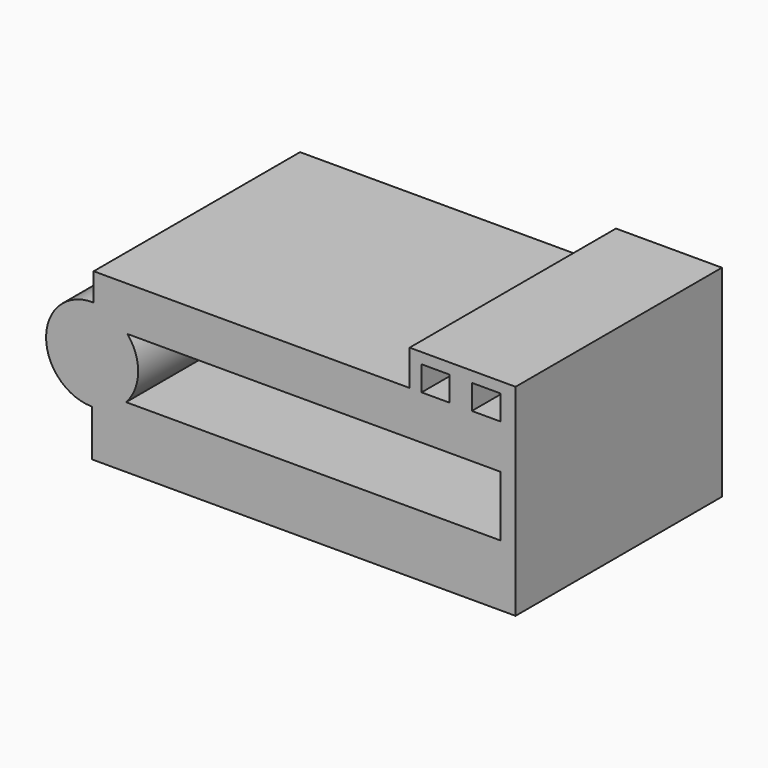
from build123d import *

# Parameters (mm, degrees)
F0_W     = 4.4458694756
F0_H     = 4.8743914813
F1_DEPTH = 25.4


with BuildPart() as f1:
    # F0 (on Front) → F1 (new body, symmetric)
    with BuildSketch(Plane.XZ):
        with BuildLine():
            ThreePointArc((-41.0524461174, 0), (-39.2974311479, 2.8332437221), (-38.6848290323, 6.1092269607))
            ThreePointArc((-38.6848290323, 6.1092269607), (-39.2259773644, 9.1945060899), (-40.7848181578, 11.9114536792))
            Line((-40.7848181578, 11.9114536792), (-47.442689538, 11.9114536792))
            Line((-47.442689538, 11.9114536792), (-47.442689538, 15.1697095529))
            ThreePointArc((-47.442689538, 15.1697095529), (-56.8149439155, 6.2631744286), (-47.7505400777, -2.9564840847))
            Line((-47.7505400777, -2.9564840847), (-47.7505400777, 0))
            Line((-47.7505400777, 0), (-41.0524461174, 0))
        make_face()
        with BuildLine():
            Line((-47.442689538, 11.9114536792), (-40.7848181578, 11.9114536792))
            ThreePointArc((-40.7848181578, 11.9114536792), (-43.7655341912, 14.2521284609), (-47.442689538, 15.1697095529))
            Line((-47.442689538, 15.1697095529), (-47.442689538, 11.9114536792))
        make_face()
        with BuildLine():
            ThreePointArc((-47.442689538, 15.1697095529), (-43.7655341912, 14.2521284609), (-40.7848181578, 11.9114536792))
            Line((-40.7848181578, 11.9114536792), (32.6969921589, 11.9114536792))
            Line((32.6969921589, 11.9114536792), (32.6969921589, 20.6220876426))
            Line((32.6969921589, 20.6220876426), (27.0350519568, 20.6220876426))
            Line((27.0350519568, 20.6220876426), (22.5891824812, 20.6220876426))
            Line((22.5891824812, 20.6220876426), (17.1364396811, 20.6220876426))
            Line((17.1364396811, 20.6220876426), (14.7774368525, 20.6220876426))
            Line((14.7774368525, 20.6220876426), (-47.442689538, 20.6220876426))
            Line((-47.442689538, 20.6220876426), (-47.442689538, 15.1697095529))
        make_face()
        with BuildLine():
            Line((32.6969921589, 0), (-41.0524461174, 0))
            ThreePointArc((-41.0524461174, 0), (-44.0897593944, -2.1844936487), (-47.7505400777, -2.9564840847))
            Line((-47.7505400777, -2.9564840847), (-47.7505400777, -12.1075483039))
            Line((-47.7505400777, -12.1075483039), (32.6969921589, -12.1075483039))
            Line((32.6969921589, -12.1075483039), (32.6969921589, 0))
        make_face()
        with BuildLine():
            ThreePointArc((-47.7505400777, -2.9564840847), (-44.0897593944, -2.1844936487), (-41.0524461174, 0))
            Line((-41.0524461174, 0), (-47.7505400777, 0))
            Line((-47.7505400777, 0), (-47.7505400777, -2.9564840847))
        make_face()
        Polygon((32.6969921589, 20.6220876426), (32.6969921589, 11.9114536792), (32.6969921589, 0), (32.6969921589, -12.1075483039), (35.6444567442, -12.1075483039), (35.6444567442, 25.4964791238), (32.6969921589, 25.4964791238), align=None)
        Polygon((14.7774368525, 27.6123639196), (14.7774368525, 20.6220876426), (17.1364396811, 20.6220876426), (17.1364396811, 25.4964791238), (17.1364396811, 27.6123639196), align=None)
        Polygon((27.0350519568, 25.4964791238), (32.6969921589, 25.4964791238), (35.6444567442, 25.4964791238), (35.6444567442, 27.6123639196), (17.1364396811, 27.6123639196), (17.1364396811, 25.4964791238), (22.5891824812, 25.4964791238), align=None)
        with Locations((24.812117219, 23.0592833832)):
            Rectangle(F0_W, F0_H)
    extrude(amount=F1_DEPTH, both=True)


solid = f1.part
